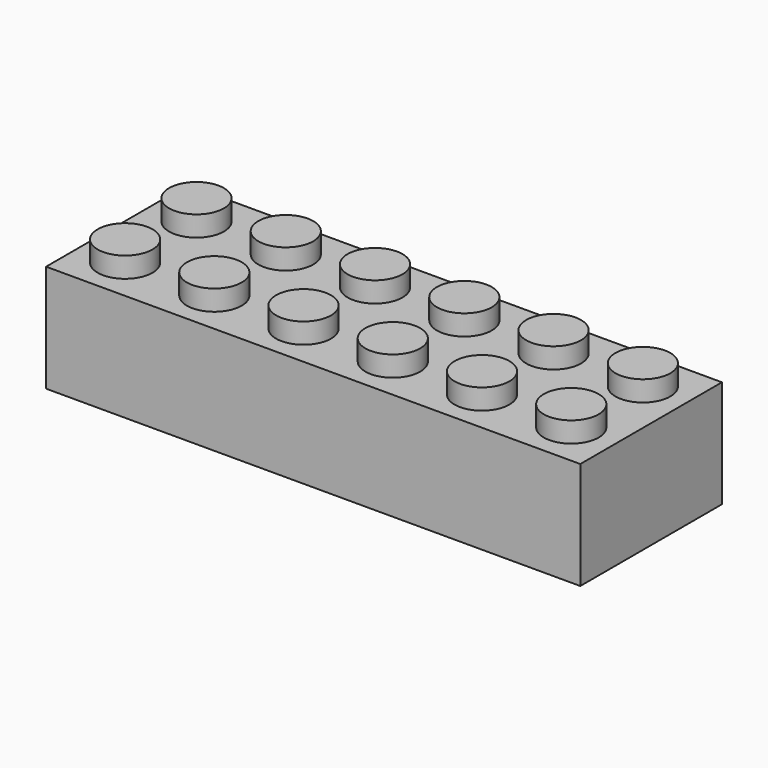
from build123d import *

# Parameters (mm, degrees)
F0_W      = 47.752
F0_H      = 15.8242
F0_R      = 2.4511
F1_DEPTH  = 9.6012
F2_DEPTH  = 11.43
F3_W      = 45.2628
F3_H      = 13.335
F3_R      = 3.2258
F4_DEPTH  = 7.62
F5_DEPTH  = 8.2804
F6_R      = 2.413
F7_DEPTH  = 7.62
F8_R      = 2.448528
F9_DEPTH  = 7.62
F10_R     = 2.453665
F11_DEPTH = 7.62
F12_R     = 2.460778
F13_DEPTH = 7.62
F14_R     = 2.432701
F15_DEPTH = 7.62


with BuildPart() as f1:
    # F0 (on Top) → F1 (new body)
    with BuildSketch(Plane.XY):
        Rectangle(F0_W, F0_H)
        with Locations((-19.9517, -3.9878)):
            Circle(F0_R, mode=Mode.SUBTRACT)
        with Locations((-11.9761, -3.9878)):
            Circle(F0_R, mode=Mode.SUBTRACT)
        with Locations((-4.0005, -3.9878)):
            Circle(F0_R, mode=Mode.SUBTRACT)
        with Locations((3.9751, -3.9878)):
            Circle(F0_R, mode=Mode.SUBTRACT)
        with Locations((11.9507, -3.9878)):
            Circle(F0_R, mode=Mode.SUBTRACT)
        with Locations((19.9263, -3.9878)):
            Circle(F0_R, mode=Mode.SUBTRACT)
        with Locations((-19.9517, 3.9878)):
            Circle(F0_R, mode=Mode.SUBTRACT)
        with Locations((-11.97102, 3.9878)):
            Circle(F0_R, mode=Mode.SUBTRACT)
        with Locations((-3.99034, 3.9878)):
            Circle(F0_R, mode=Mode.SUBTRACT)
        with Locations((3.99034, 3.9878)):
            Circle(F0_R, mode=Mode.SUBTRACT)
        with Locations((11.97102, 3.9878)):
            Circle(F0_R, mode=Mode.SUBTRACT)
        with Locations((19.9517, 3.9878)):
            Circle(F0_R, mode=Mode.SUBTRACT)
        with Locations((-19.9517, 3.9878)):
            Circle(F0_R)
        with Locations((-19.9517, -3.9878)):
            Circle(F0_R)
        with Locations((-11.9761, -3.9878)):
            Circle(F0_R)
        with Locations((-11.97102, 3.9878)):
            Circle(F0_R)
        with Locations((-3.99034, 3.9878)):
            Circle(F0_R)
        with Locations((-4.0005, -3.9878)):
            Circle(F0_R)
        with Locations((3.9751, -3.9878)):
            Circle(F0_R)
        with Locations((3.99034, 3.9878)):
            Circle(F0_R)
        with Locations((11.9507, -3.9878)):
            Circle(F0_R)
        with Locations((11.97102, 3.9878)):
            Circle(F0_R)
        with Locations((19.9263, -3.9878)):
            Circle(F0_R)
        with Locations((19.9517, 3.9878)):
            Circle(F0_R)
    extrude(amount=F1_DEPTH)

    # F0 (on Top) → F2 (join)
    with BuildSketch(Plane.XY):
        with Locations((-11.9761, -3.9878)):
            Circle(F0_R)
        with Locations((-19.9517, -3.9878)):
            Circle(F0_R)
        with Locations((-4.0005, -3.9878)):
            Circle(F0_R)
        with Locations((3.9751, -3.9878)):
            Circle(F0_R)
        with Locations((11.9507, -3.9878)):
            Circle(F0_R)
        with Locations((19.9263, -3.9878)):
            Circle(F0_R)
        with Locations((3.99034, 3.9878)):
            Circle(F0_R)
        with Locations((11.97102, 3.9878)):
            Circle(F0_R)
        with Locations((19.9517, 3.9878)):
            Circle(F0_R)
        with Locations((-3.99034, 3.9878)):
            Circle(F0_R)
        with Locations((-11.97102, 3.9878)):
            Circle(F0_R)
        with Locations((-19.9517, 3.9878)):
            Circle(F0_R)
    extrude(amount=F2_DEPTH)

    # F3 (on face) → F4 (join)
    with BuildSketch(Plane(origin=(0, 0, 0), x_dir=(1, 0, 0), z_dir=(0, 0, -1))):
        Rectangle(F3_W, F3_H)
        with Locations((-15.8496, 0)):
            Circle(F3_R, mode=Mode.SUBTRACT)
        with Locations((-7.9248, 0)):
            Circle(F3_R, mode=Mode.SUBTRACT)
        Circle(F3_R, mode=Mode.SUBTRACT)
        with Locations((7.9248, 0)):
            Circle(F3_R, mode=Mode.SUBTRACT)
        with Locations((15.8496, 0)):
            Circle(F3_R, mode=Mode.SUBTRACT)
    extrude(amount=-F4_DEPTH)

    # F3 (on face) → F5 (cut)
    with BuildSketch(Plane(origin=(0, 0, 0), x_dir=(1, 0, 0), z_dir=(0, 0, -1))):
        Rectangle(F3_W, F3_H)
        with Locations((-15.8496, 0)):
            Circle(F3_R, mode=Mode.SUBTRACT)
        with Locations((-7.9248, 0)):
            Circle(F3_R, mode=Mode.SUBTRACT)
        Circle(F3_R, mode=Mode.SUBTRACT)
        with Locations((7.9248, 0)):
            Circle(F3_R, mode=Mode.SUBTRACT)
        with Locations((15.8496, 0)):
            Circle(F3_R, mode=Mode.SUBTRACT)
    extrude(amount=-F5_DEPTH, mode=Mode.SUBTRACT)

    # F6 (on face) → F7 (cut)
    with BuildSketch(Plane(origin=(0, 0, 0), x_dir=(1, 0, 0), z_dir=(0, 0, -1))):
        with Locations((-15.8496, 0)):
            Circle(F6_R)
    extrude(amount=-F7_DEPTH, mode=Mode.SUBTRACT)

    # F8 (on face) → F9 (cut)
    with BuildSketch(Plane(origin=(0, 0, 0), x_dir=(1, 0, 0), z_dir=(0, 0, -1))):
        with Locations((-7.9248, 0)):
            Circle(F8_R)
    extrude(amount=-F9_DEPTH, mode=Mode.SUBTRACT)

    # F10 (on face) → F11 (cut)
    with BuildSketch(Plane(origin=(0, 0, 0), x_dir=(1, 0, 0), z_dir=(0, 0, -1))):
        Circle(F10_R)
    extrude(amount=-F11_DEPTH, mode=Mode.SUBTRACT)

    # F12 (on face) → F13 (cut)
    with BuildSketch(Plane(origin=(0, 0, 0), x_dir=(1, 0, 0), z_dir=(0, 0, -1))):
        with Locations((7.9248, 0)):
            Circle(F12_R)
    extrude(amount=-F13_DEPTH, mode=Mode.SUBTRACT)

    # F14 (on face) → F15 (cut)
    with BuildSketch(Plane(origin=(0, 0, 0), x_dir=(1, 0, 0), z_dir=(0, 0, -1))):
        with Locations((15.8496, 0)):
            Circle(F14_R)
    extrude(amount=-F15_DEPTH, mode=Mode.SUBTRACT)


solid = f1.part
